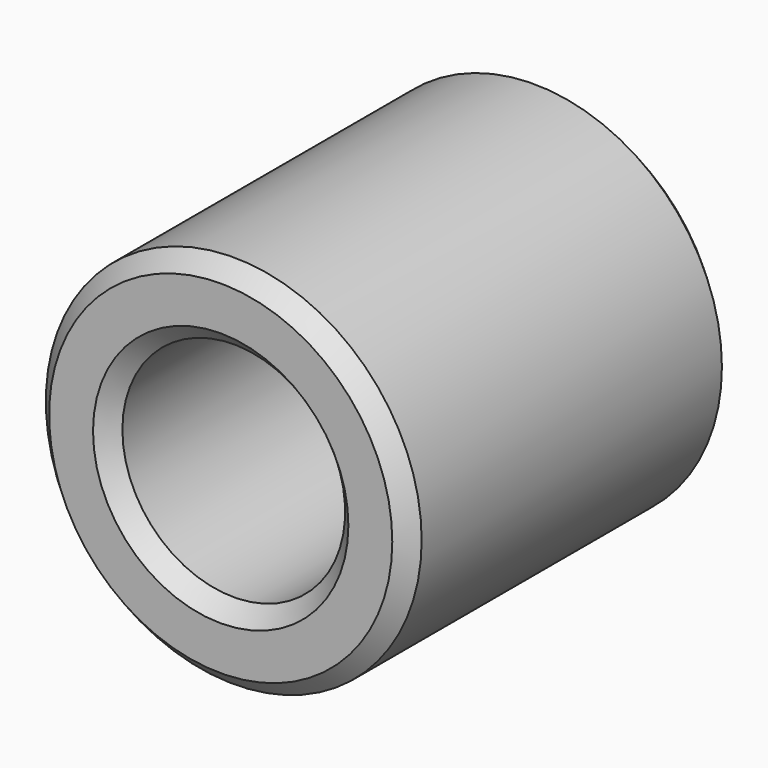
from build123d import *

# Parameters (mm, degrees)
F0_R     = 58.497005
F1_DEPTH = 127
F2_R     = 34.670049
F3_DEPTH = 127.001
F4_SIZE  = 5.08


with BuildPart() as f1:
    # F0 (on Front) → F1 (new body)
    with BuildSketch(Plane.XZ):
        Circle(F0_R)
    extrude(amount=F1_DEPTH)

    # F2 (on face) → F3 (cut, through all)
    with BuildSketch(Plane(origin=(0, 0, 0), x_dir=(-1, 0, 0), z_dir=(0, 1, 0))):
        Circle(F2_R)
    extrude(amount=-F3_DEPTH, mode=Mode.SUBTRACT)

    # F4
    f4_edges = [f1.edges().sort_by_distance(p)[0] for p in [
        (-58.497005, 0, 0),
        (34.670049, 0, 0),
        (-58.497005, -127, 0),
        (34.670049, -127, 0),
    ]]
    chamfer(f4_edges, length=F4_SIZE)


solid = f1.part
